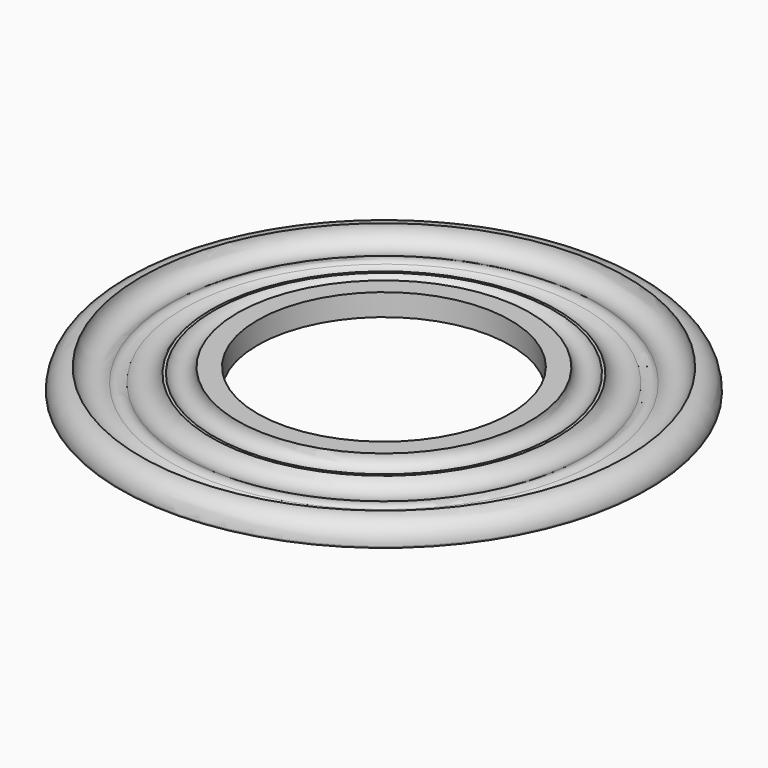
from build123d import *


with BuildPart() as f1:
    # F0 (on Front) → F1 (revolve)
    with BuildSketch(Plane.XZ):
        with BuildLine():
            Line((-48, 0), (-23, 0))
            Line((-23, 0), (-23, 4))
            Line((-23, 4), (-26.623096, 4))
            ThreePointArc((-26.623096, 4), (-28.383203, 1.759837), (-30.976208, 2.939935))
            ThreePointArc((-30.976208, 2.939935), (-31.212448, 2.909175), (-31.449733, 2.930425))
            ThreePointArc((-31.449733, 2.930425), (-33.595626, 0.895984), (-36.498801, 1.457572))
            ThreePointArc((-36.498801, 1.457572), (-37.734478, 1.884962), (-38.970154, 1.457572))
            ThreePointArc((-38.970154, 1.457572), (-42.381266, 1.091895), (-44.201249, 4))
            Line((-44.201249, 4), (-44.236501, 4))
            ThreePointArc((-44.236501, 4), (-46.897697, 2.897697), (-48, 0.236501))
            Line((-48, 0.236501), (-48, 0))
        make_face()
    revolve(axis=Axis((0, 0, 2), (0, 0, 1)))


solid = f1.part
